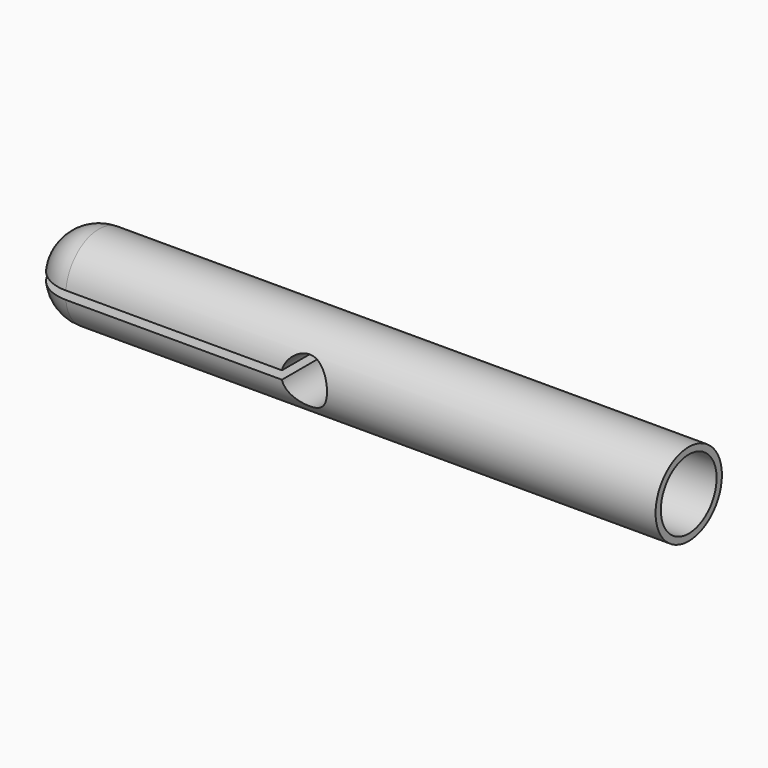
from build123d import *

# Parameters (mm, degrees)
F0_R     = 5
F1_DEPTH = 76.1
F2_R     = 5
F3_W     = 10
F3_H     = 1
F4_DEPTH = 33.75
F5_R     = 2.75
F6_DEPTH = 12.5
F8_D     = 8.4
F8_DEPTH = 20
F8_TIP   = 2.5236145999


with BuildPart() as f1:
    # F0 (on Right) → F1 (new body)
    with BuildSketch(Plane.YZ):
        Circle(F0_R)
    extrude(amount=F1_DEPTH)

    # F2
    f2_edges = [f1.edges().sort_by_distance(p)[0] for p in [
        (0, -5, 0),
    ]]
    fillet(f2_edges, radius=F2_R)

    # F3 (on Right) → F4 (cut)
    with BuildSketch(Plane.YZ):
        Rectangle(F3_W, F3_H)
    extrude(amount=F4_DEPTH, mode=Mode.SUBTRACT)

    # F5 (on Front) → F6 (cut, symmetric)
    with BuildSketch(Plane.XZ):
        with Locations((33.75, 0)):
            Circle(F5_R)
    extrude(amount=F6_DEPTH, both=True, mode=Mode.SUBTRACT)

    # F8
    with Locations(Plane.YZ.offset(76.1)):
        with Locations((0, 0)):
            Hole(F8_D / 2, depth=F8_DEPTH)
            with Locations((0, 0, -(F8_DEPTH + F8_TIP / 2))):  # 118° drill point
                Cone(0, F8_D / 2, F8_TIP, mode=Mode.SUBTRACT)


solid = f1.part
